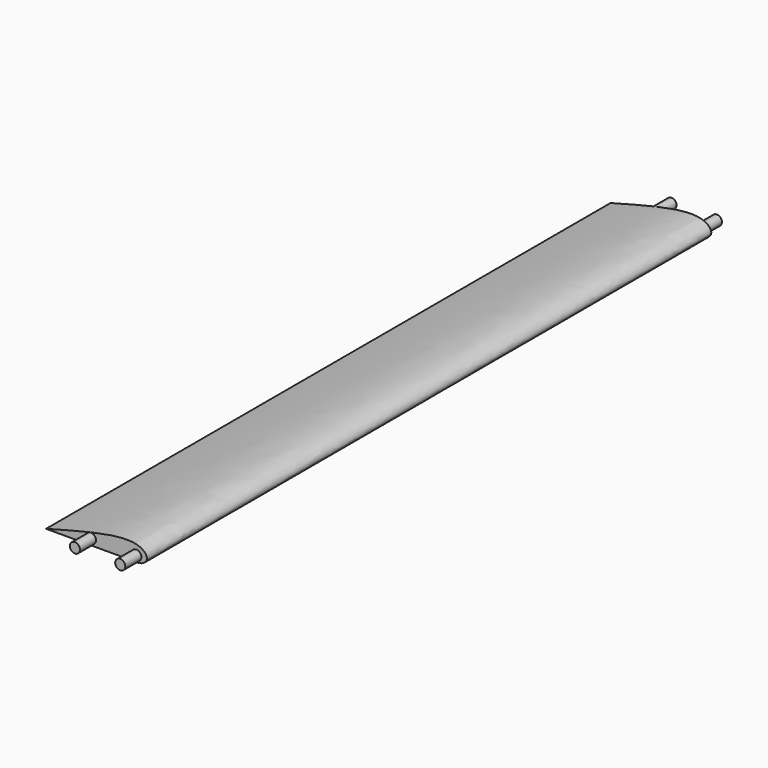
from build123d import *

# Parameters (mm, degrees)
F0_R     = 1.27
F1_DEPTH = 177.8
F2_DEPTH = 5.08
F3_DEPTH = 182.88


with BuildPart() as f1:
    # F0 (on Front) → F1 (new body)
    with BuildSketch(Plane.XZ):
        with BuildLine():
            add(Edge.make_bspline(
                [(11.9533366035, 0), (13.3596038093, 0), (15.3156895071, 1.5418011074), (11.1239910551, 6.0402650605), (-1.0569947591, 2.6537341134), (-11.0211835916, 0)],
                knots=[0, 0, 0, 0, 0.2032023134, 0.4226681756, 1, 1, 1, 1], degree=3))
            Line((-11.0211835916, 0), (11.9533366035, 0))
        make_face()
        with Locations((0.3033857343, 1.524)):
            Circle(F0_R, mode=Mode.SUBTRACT)
        with Locations((11.7333857343, 1.524)):
            Circle(F0_R, mode=Mode.SUBTRACT)
        with Locations((0.3033857343, 1.524)):
            Circle(F0_R)
        with Locations((11.7333857343, 1.524)):
            Circle(F0_R)
    extrude(amount=F1_DEPTH)

    # F0 (on Front) → F2 (join)
    with BuildSketch(Plane.XZ):
        with Locations((11.7333857343, 1.524)):
            Circle(F0_R)
        with Locations((0.3033857343, 1.524)):
            Circle(F0_R)
    extrude(amount=-F2_DEPTH)

    # F0 (on Front) → F3 (join)
    with BuildSketch(Plane.XZ):
        with Locations((0.3033857343, 1.524)):
            Circle(F0_R)
        with Locations((11.7333857343, 1.524)):
            Circle(F0_R)
    extrude(amount=F3_DEPTH)


solid = f1.part
